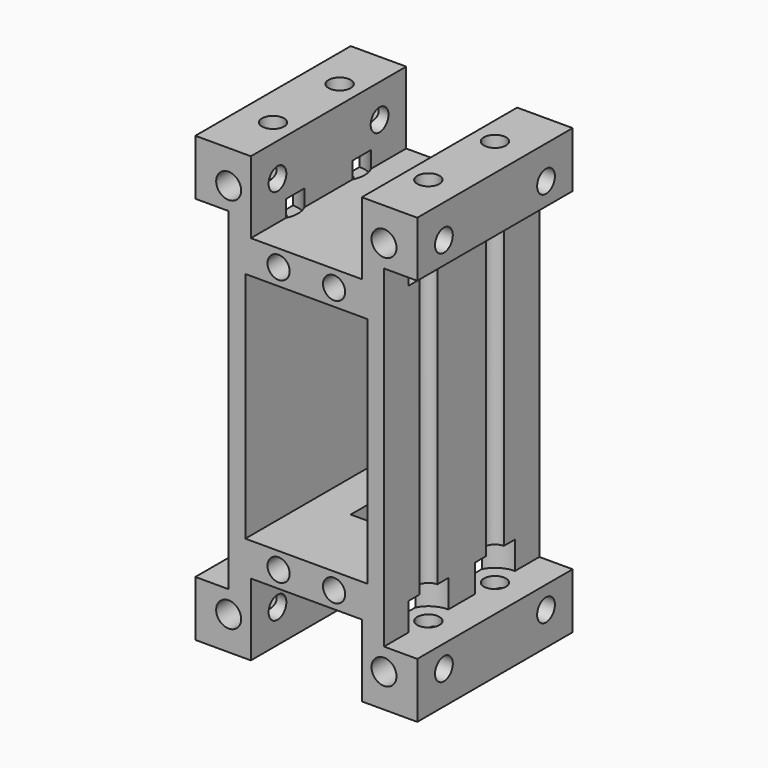
from build123d import *

# Parameters (mm, degrees)
F0_W      = 40
F0_H      = 80
F1_DEPTH  = 35
F2_W      = 22
F2_H      = 42
F2_W_2    = 6
F2_H_2    = 60
F2_W_3    = 20
F2_H_3    = 13
F3_DEPTH  = 35.001
F4_W      = 8
F4_H      = 10
F5_DEPTH  = 20
F6_R      = 2
F7_DEPTH  = 10
F8_R      = 2.25
F9_DEPTH  = 35.001
F10_R     = 2
F11_DEPTH = 40.001
F12_R     = 2
F13_DEPTH = 80
F14_START = -10
F14_DEPTH = 5
F15_START = -65
F15_DEPTH = 5


with BuildPart() as f1:
    # F0 (on Front) → F1 (new body)
    with BuildSketch(Plane.XZ):
        with Locations((-13.9717739075, 24.4583009711)):
            Rectangle(F0_W, F0_H)
        with Locations((-13.9717739075, 24.4583009711)):
            Rectangle(F0_W, F0_H)
    extrude(amount=F1_DEPTH)

    # F2 (on face) → F3 (cut, through all)
    with BuildSketch(Plane.XZ.offset(35)):
        with Locations((-13.9717739075, 24.4583009711)):
            Rectangle(F2_W, F2_H)
        with Locations((3.0282260925, 24.4583009711)):
            Rectangle(F2_W_2, F2_H_2)
        with Locations((-30.9717739075, 24.4583009711)):
            Rectangle(F2_W_2, F2_H_2)
        with Locations((-13.9717739075, -9.0416990289)):
            Rectangle(F2_W_3, F2_H_3)
        with Locations((-13.9717739075, 57.9583009711)):
            Rectangle(F2_W_3, F2_H_3)
    extrude(amount=-F3_DEPTH, mode=Mode.SUBTRACT)

    # F4 (on face) → F5 (cut)
    with BuildSketch(Plane(origin=(0, 0, 0), x_dir=(-1, 0, 0), z_dir=(0, 1, 0))):
        with Locations((13.9717739075, -1.5416990289)):
            Rectangle(F4_W, F4_H)
    extrude(amount=-F5_DEPTH, mode=Mode.SUBTRACT)

    # F6 (on face) → F7 (cut)
    with BuildSketch(Plane.XZ.offset(35)):
        with Locations((-18.9717739075, 48.4583009711)):
            Circle(F6_R)
        with Locations((-8.9717739075, 48.4583009711)):
            Circle(F6_R)
        with Locations((-18.9717739075, 0.4583009711)):
            Circle(F6_R)
        with Locations((-8.9717739075, 0.4583009711)):
            Circle(F6_R)
    extrude(amount=-F7_DEPTH, mode=Mode.SUBTRACT)

    # F8 (on face) → F9 (cut, through all)
    with BuildSketch(Plane.XZ.offset(35)):
        with Locations((-27.9717739075, 58.4583009711)):
            Circle(F8_R)
        with Locations((-27.9717739075, -9.5416990289)):
            Circle(F8_R)
        with Locations((0.0282260925, 58.4583009711)):
            Circle(F8_R)
        with Locations((0.0282260925, -9.5416990289)):
            Circle(F8_R)
    extrude(amount=-F9_DEPTH, mode=Mode.SUBTRACT)

    # F10 (on face) → F11 (cut, through all)
    with BuildSketch(Plane(origin=(-33.9717739075, 0, 0), x_dir=(0, -1, 0), z_dir=(-1, 0, 0))):
        with Locations((6, 58.4583009711)):
            Circle(F10_R)
        with Locations((6, -9.5416990289)):
            Circle(F10_R)
        with Locations((29, 58.4583009711)):
            Circle(F10_R)
        with Locations((29, -9.5416990289)):
            Circle(F10_R)
    extrude(amount=-F11_DEPTH, mode=Mode.SUBTRACT)

    # F12 (on face) → F13 (cut, through all)
    with BuildSketch(Plane(origin=(0, 0, -15.5416990289), x_dir=(1, 0, 0), z_dir=(0, 0, -1))):
        with Locations((-27.9717739075, 10)):
            Circle(F12_R)
        with Locations((-27.9717739075, 25)):
            Circle(F12_R)
        with Locations((0.0282260925, 25)):
            Circle(F12_R)
        with Locations((0.0282260925, 10)):
            Circle(F12_R)
    extrude(amount=-F13_DEPTH, mode=Mode.SUBTRACT)

    # F12 (on face) → F14 (cut)
    with BuildSketch(Plane(origin=(0, 0, -15.5416990289), x_dir=(1, 0, 0), z_dir=(0, 0, -1)).offset(F14_START)):
        with BuildLine():
            Line((-23.9717739075, 7.9384471872), (-23.9717739075, 12.0615528128))
            ThreePointArc((-23.9717739075, 12.0615528128), (-32.4717739075, 10), (-23.9717739075, 7.9384471872))
        make_face()
        with Locations((-27.9717739075, 10)):
            Circle(F12_R, mode=Mode.SUBTRACT)
        with BuildLine():
            Line((-23.9717739075, 22.9384471872), (-23.9717739075, 27.0615528128))
            ThreePointArc((-23.9717739075, 27.0615528128), (-32.4717739075, 25), (-23.9717739075, 22.9384471872))
        make_face()
        with Locations((-27.9717739075, 25)):
            Circle(F12_R, mode=Mode.SUBTRACT)
        with BuildLine():
            ThreePointArc((4.5282260925, 25), (1.0888862642, 29.3732139211), (-3.9717739075, 27.0615528128))
            Line((-3.9717739075, 27.0615528128), (-3.9717739075, 22.9384471872))
            ThreePointArc((-3.9717739075, 22.9384471872), (1.0888862642, 20.6267860789), (4.5282260925, 25))
        make_face()
        with Locations((0.0282260925, 25)):
            Circle(F12_R, mode=Mode.SUBTRACT)
        with BuildLine():
            ThreePointArc((4.5282260925, 10), (1.0888862642, 14.3732139211), (-3.9717739075, 12.0615528128))
            Line((-3.9717739075, 12.0615528128), (-3.9717739075, 7.9384471872))
            ThreePointArc((-3.9717739075, 7.9384471872), (1.0888862642, 5.6267860789), (4.5282260925, 10))
        make_face()
        with Locations((0.0282260925, 10)):
            Circle(F12_R, mode=Mode.SUBTRACT)
        with BuildLine():
            ThreePointArc((-23.4717739075, 25), (-23.5985599864, 26.0606601718), (-23.9717739075, 27.0615528128))
            Line((-23.9717739075, 27.0615528128), (-23.9717739075, 22.9384471872))
            ThreePointArc((-23.9717739075, 22.9384471872), (-23.5985599864, 23.9393398282), (-23.4717739075, 25))
        make_face()
        with BuildLine():
            Line((-3.9717739075, 22.9384471872), (-3.9717739075, 27.0615528128))
            ThreePointArc((-3.9717739075, 27.0615528128), (-4.4717739075, 25), (-3.9717739075, 22.9384471872))
        make_face()
        with BuildLine():
            Line((-3.9717739075, 7.9384471872), (-3.9717739075, 12.0615528128))
            ThreePointArc((-3.9717739075, 12.0615528128), (-4.4717739075, 10), (-3.9717739075, 7.9384471872))
        make_face()
        with BuildLine():
            ThreePointArc((-23.4717739075, 10), (-23.5985599864, 11.0606601718), (-23.9717739075, 12.0615528128))
            Line((-23.9717739075, 12.0615528128), (-23.9717739075, 7.9384471872))
            ThreePointArc((-23.9717739075, 7.9384471872), (-23.5985599864, 8.9393398282), (-23.4717739075, 10))
        make_face()
    extrude(amount=-F14_DEPTH, mode=Mode.SUBTRACT)

    # F12 (on face) → F15 (cut)
    with BuildSketch(Plane(origin=(0, 0, -15.5416990289), x_dir=(1, 0, 0), z_dir=(0, 0, -1)).offset(F15_START)):
        with BuildLine():
            Line((-23.9717739075, 22.9384471872), (-23.9717739075, 27.0615528128))
            ThreePointArc((-23.9717739075, 27.0615528128), (-32.4717739075, 25), (-23.9717739075, 22.9384471872))
        make_face()
        with Locations((-27.9717739075, 25)):
            Circle(F12_R, mode=Mode.SUBTRACT)
        with BuildLine():
            Line((-23.9717739075, 7.9384471872), (-23.9717739075, 12.0615528128))
            ThreePointArc((-23.9717739075, 12.0615528128), (-32.4717739075, 10), (-23.9717739075, 7.9384471872))
        make_face()
        with Locations((-27.9717739075, 10)):
            Circle(F12_R, mode=Mode.SUBTRACT)
        with BuildLine():
            ThreePointArc((-23.4717739075, 25), (-23.5985599864, 26.0606601718), (-23.9717739075, 27.0615528128))
            Line((-23.9717739075, 27.0615528128), (-23.9717739075, 22.9384471872))
            ThreePointArc((-23.9717739075, 22.9384471872), (-23.5985599864, 23.9393398282), (-23.4717739075, 25))
        make_face()
        with BuildLine():
            ThreePointArc((-23.4717739075, 10), (-23.5985599864, 11.0606601718), (-23.9717739075, 12.0615528128))
            Line((-23.9717739075, 12.0615528128), (-23.9717739075, 7.9384471872))
            ThreePointArc((-23.9717739075, 7.9384471872), (-23.5985599864, 8.9393398282), (-23.4717739075, 10))
        make_face()
        with BuildLine():
            ThreePointArc((4.5282260925, 25), (1.0888862642, 29.3732139211), (-3.9717739075, 27.0615528128))
            Line((-3.9717739075, 27.0615528128), (-3.9717739075, 22.9384471872))
            ThreePointArc((-3.9717739075, 22.9384471872), (1.0888862642, 20.6267860789), (4.5282260925, 25))
        make_face()
        with Locations((0.0282260925, 25)):
            Circle(F12_R, mode=Mode.SUBTRACT)
        with BuildLine():
            Line((-3.9717739075, 22.9384471872), (-3.9717739075, 27.0615528128))
            ThreePointArc((-3.9717739075, 27.0615528128), (-4.4717739075, 25), (-3.9717739075, 22.9384471872))
        make_face()
        with BuildLine():
            ThreePointArc((4.5282260925, 10), (1.0888862642, 14.3732139211), (-3.9717739075, 12.0615528128))
            Line((-3.9717739075, 12.0615528128), (-3.9717739075, 7.9384471872))
            ThreePointArc((-3.9717739075, 7.9384471872), (1.0888862642, 5.6267860789), (4.5282260925, 10))
        make_face()
        with Locations((0.0282260925, 10)):
            Circle(F12_R, mode=Mode.SUBTRACT)
        with BuildLine():
            Line((-3.9717739075, 7.9384471872), (-3.9717739075, 12.0615528128))
            ThreePointArc((-3.9717739075, 12.0615528128), (-4.4717739075, 10), (-3.9717739075, 7.9384471872))
        make_face()
    extrude(amount=-F15_DEPTH, mode=Mode.SUBTRACT)


solid = f1.part
